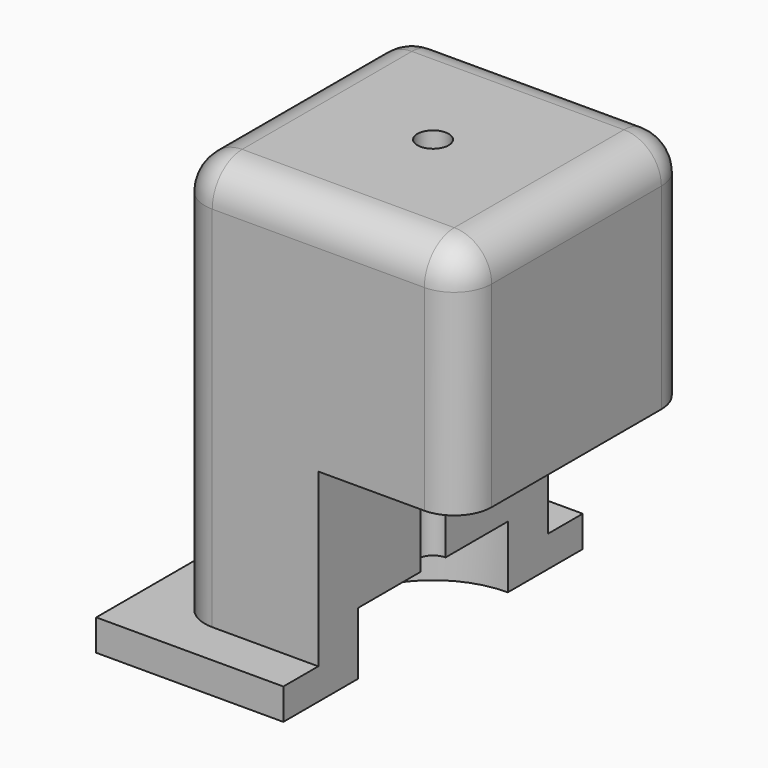
from build123d import *

# Parameters (mm, degrees)
SKETCH_W        = 9.2
SKETCH_H        = 9.2
PAD_DEPTH       = 13
SKETCH002_W     = 6
SKETCH002_H     = 12
PAD001_DEPTH    = 1
SKETCH008_R     = 3
POCKET_DEPTH    = 2
SKETCH004_W     = 4.6
SKETCH004_H     = 9.2
POCKET001_DEPTH = 7.5
SKETCH009_R     = 0.5
POCKET002_DEPTH = 14.001
FILLET_R        = 1.2


with BuildPart() as part:
    # Sketch → Pad (new body)
    with BuildSketch(Plane.XY):
        Rectangle(SKETCH_W, SKETCH_H)
    extrude(amount=PAD_DEPTH)

    # Sketch002 → Pad001 (join)
    with BuildSketch(Plane(origin=(0, 0, 0), x_dir=(1, 0, 0), z_dir=(0, 0, -1))):
        with Locations((-3, 0)):
            Rectangle(SKETCH002_W, SKETCH002_H)
    extrude(amount=PAD001_DEPTH)

    # Sketch008 (on Face12 of Pad001) → Pocket (cut)
    with BuildSketch(Plane(origin=(0, 0, -1), x_dir=(1, 0, 0), z_dir=(0, 0, -1))):
        Circle(SKETCH008_R)
    extrude(amount=-POCKET_DEPTH, mode=Mode.SUBTRACT)

    # Sketch004 → Pocket001 (cut)
    with BuildSketch(Plane(origin=(0, 0, -2), x_dir=(1, 0, 0), z_dir=(0, 0, -1))):
        with Locations((2.3, 0)):
            Rectangle(SKETCH004_W, SKETCH004_H)
    extrude(amount=-POCKET001_DEPTH, mode=Mode.SUBTRACT)

    # Sketch009 (on Face6 of Pocket001) → Pocket002 (cut, through all)
    with BuildSketch(Plane.XY.offset(13)):
        Circle(SKETCH009_R)
    extrude(amount=-POCKET002_DEPTH, mode=Mode.SUBTRACT)

    # Fillet
    fillet_edges = [part.edges().sort_by_distance(p)[0] for p in [
        (-4.6, -4.6, 6.5),
        (0, -4.6, 13),
        (-4.6, 0, 13),
        (-4.6, 4.6, 6.5),
        (0, 4.6, 13),
        (4.6, 0, 13),
        (4.6, 4.6, 9.25),
        (4.6, -4.6, 9.25),
    ]]
    fillet(fillet_edges, radius=FILLET_R)


solid = part.part
